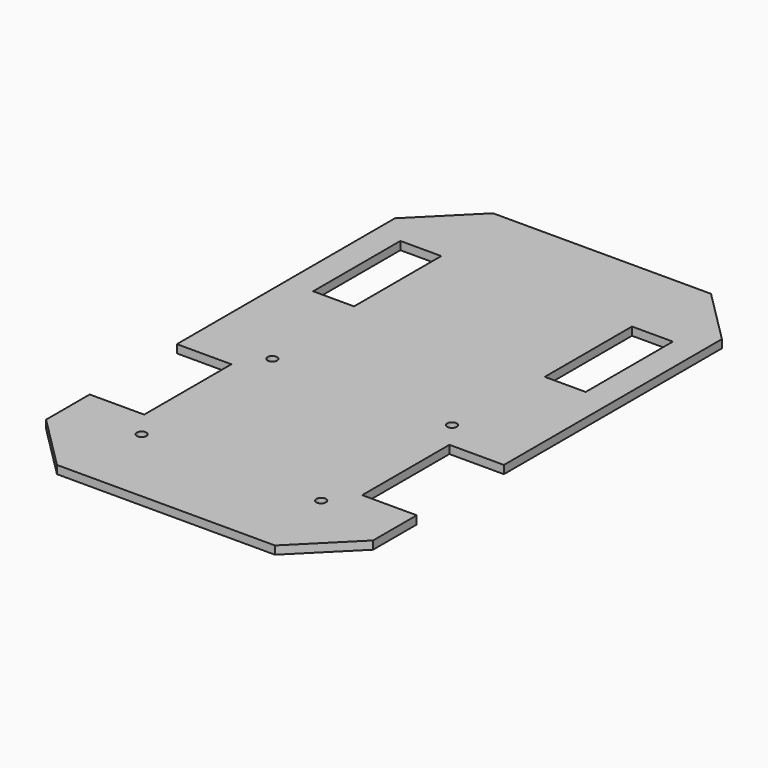
from build123d import *

# Parameters (mm, degrees)
F0_R     = 1.75
F0_W     = 15
F0_H     = 40
F1_DEPTH = 3


with BuildPart() as f1:
    # F0 (on Top) → F1 (new body)
    with BuildSketch(Plane.XY):
        Polygon((0, 20), (20, 0), (60, 0), (100, 0), (120, 20), (120, 40), (100, 40), (100, 80), (120, 80), (120, 180), (100, 200), (60, 200), (20, 200), (0, 180), (0, 80), (20, 80), (20, 40), (0, 40), align=None)
        with Locations((27.052438, 30)):
            Circle(F0_R, mode=Mode.SUBTRACT)
        with Locations((27.052438, 90)):
            Circle(F0_R, mode=Mode.SUBTRACT)
        with Locations((92.947562, 30)):
            Circle(F0_R, mode=Mode.SUBTRACT)
        with Locations((92.947562, 90)):
            Circle(F0_R, mode=Mode.SUBTRACT)
        with Locations((17.5, 150)):
            Rectangle(F0_W, F0_H, mode=Mode.SUBTRACT)
        with Locations((102.5, 150)):
            Rectangle(F0_W, F0_H, mode=Mode.SUBTRACT)
    extrude(amount=F1_DEPTH)


solid = f1.part
